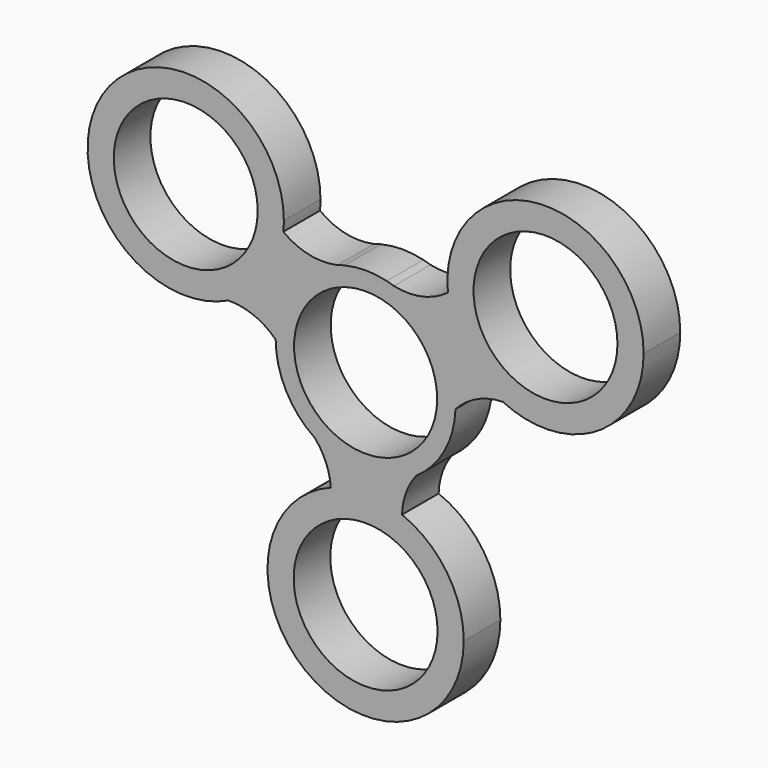
from build123d import *

# Parameters (mm, degrees)
F0_R     = 11.1125
F0_R_2   = 11.176
F1_DEPTH = 7.112


with BuildPart() as f1:
    # F0 (on Front) → F1 (new body)
    with BuildSketch(Plane.XZ):
        with BuildLine():
            ThreePointArc((4.381603, 13.265084), (3.823439, 13.407368), (3.274184, 13.580892))
            ThreePointArc((3.274184, 13.580892), (0, 13.97), (-3.274184, 13.580892))
            ThreePointArc((-3.274184, 13.580892), (-3.818148, 13.409448), (-4.370834, 13.268636))
            ThreePointArc((-4.370834, 13.268636), (-11.332781, 8.168781), (-13.969916, -0.048442))
            ThreePointArc((-13.969916, -0.048442), (-12.334716, -6.558634), (-7.85182, -11.554645))
            ThreePointArc((-7.85182, -11.554645), (0, -13.97), (7.85182, -11.554645))
            ThreePointArc((7.85182, -11.554645), (12.237412, -6.738446), (13.962514, -0.457266))
            ThreePointArc((13.962514, -0.457266), (13.968128, -0.228663), (13.97, 0))
            ThreePointArc((13.97, 0), (11.321923, 8.183823), (4.381603, 13.265084))
        make_face()
        Circle(F0_R, mode=Mode.SUBTRACT)
        with BuildLine():
            ThreePointArc((4.381603, 13.265084), (3.831149, 13.434404), (3.274184, 13.580892))
            ThreePointArc((3.274184, 13.580892), (3.823439, 13.407368), (4.381603, 13.265084))
        make_face()
        with BuildLine():
            ThreePointArc((-4.370834, 13.268636), (-3.818148, 13.409448), (-3.274184, 13.580892))
            ThreePointArc((-3.274184, 13.580892), (-3.825696, 13.435957), (-4.370834, 13.268636))
        make_face()
        with BuildLine():
            ThreePointArc((12.780451, 15.079631), (8.781136, 13.246127), (4.381603, 13.265084))
            ThreePointArc((4.381603, 13.265084), (11.321923, 8.183823), (13.97, 0))
            ThreePointArc((13.97, 0), (13.968128, -0.228663), (13.962514, -0.457266))
            ThreePointArc((13.962514, -0.457266), (17.288928, 1.990019), (21.312528, 2.920008))
            ThreePointArc((21.312528, 2.920008), (15.464718, 7.889933), (12.780451, 15.079631))
        make_face()
        with BuildLine():
            ThreePointArc((-13.969916, -0.048442), (-11.332781, 8.168781), (-4.370834, 13.268636))
            ThreePointArc((-4.370834, 13.268636), (-8.776198, 13.250281), (-12.779475, 15.089124))
            ThreePointArc((-12.779475, 15.089124), (-15.464527, 7.890204), (-21.320526, 2.916148))
            ThreePointArc((-21.320526, 2.916148), (-17.345916, 2.175971), (-13.969916, -0.048442))
        make_face()
        with BuildLine():
            ThreePointArc((43.18, 16.6435), (27.157032, 31.863373), (12.780451, 15.079631))
            ThreePointArc((12.780451, 15.079631), (15.464718, 7.889933), (21.312528, 2.920008))
            ThreePointArc((21.312528, 2.920008), (36.041078, 3.73497), (43.18, 16.6435))
        make_face()
        with Locations((27.94, 16.6435)):
            Circle(F0_R_2, mode=Mode.SUBTRACT)
        with BuildLine():
            ThreePointArc((-21.320526, 2.916148), (-15.464527, 7.890204), (-12.779475, 15.089124))
            ThreePointArc((-12.779475, 15.089124), (-12.719882, 15.865297), (-12.7, 16.6435))
            ThreePointArc((-12.7, 16.6435), (-40.846169, 24.748338), (-21.320526, 2.916148))
        make_face()
        with Locations((-27.94, 16.6435)):
            Circle(F0_R_2, mode=Mode.SUBTRACT)
        with BuildLine():
            ThreePointArc((7.85182, -11.554645), (0, -13.97), (-7.85182, -11.554645))
            ThreePointArc((-7.85182, -11.554645), (-6.146083, -14.328813), (-5.400316, -17.498888))
            ThreePointArc((-5.400316, -17.498888), (0.135311, -16.510601), (5.652517, -17.597027))
            ThreePointArc((5.652517, -17.597027), (6.264237, -14.398239), (7.85182, -11.554645))
        make_face()
        with BuildLine():
            ThreePointArc((5.652517, -17.597027), (0.135311, -16.510601), (-5.400316, -17.498888))
            ThreePointArc((-5.400316, -17.498888), (-8.659006, -44.291101), (15.24, -31.75))
            ThreePointArc((15.24, -31.75), (12.617487, -23.202683), (5.652517, -17.597027))
        make_face()
        with Locations((0, -31.75)):
            Circle(F0_R_2, mode=Mode.SUBTRACT)
    extrude(amount=F1_DEPTH)


solid = f1.part
